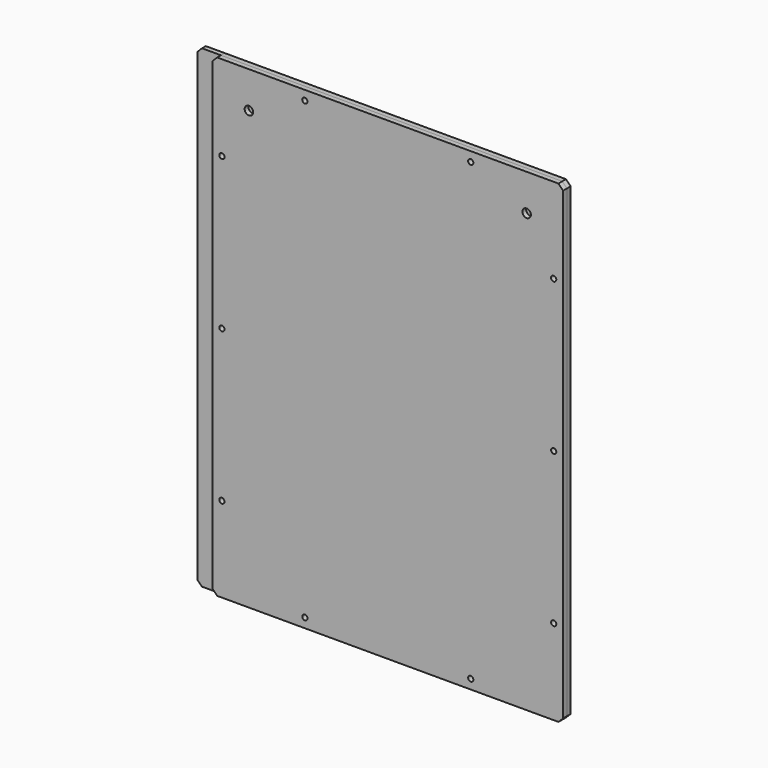
from build123d import *

# Parameters (mm, degrees)
F1_W     = 390
F1_H     = 500
F1_R     = 4.5
F2_DEPTH = 5
F3_D     = 5.5
F3_DEPTH = 17
F3_TIP   = 1.6523667023
F4_W     = 370
F4_H     = 500
F4_R     = 4.5
F5_DEPTH = 5
F6_D     = 5.5
F6_DEPTH = 17
F6_TIP   = 1.6523667023
F7_DEPTH = 5
F8_D     = 5.5
F8_DEPTH = 22.4
F8_TIP   = 1.6523667023
F9_SIZE  = 5
F10_SIZE = 5
F11_SIZE = 5


with BuildPart() as f2:
    # F1 (on Front) → F2 (new body)
    with BuildSketch(Plane.XZ):
        with Locations((-10, 0)):
            Rectangle(F1_W, F1_H)
        with Locations((-146.5, 193.5)):
            Circle(F1_R, mode=Mode.SUBTRACT)
        with Locations((146.5, 193.5)):
            Circle(F1_R, mode=Mode.SUBTRACT)
    extrude(amount=-F2_DEPTH)

    # F3
    with Locations(Plane.XZ):
        with Locations((-175, 240), (-175, 160), (-175, 80), (-175, -80), (-175, -160), (-175, -240), (-87.5, -240), (87.5, -240), (175, -240), (175, -160), (175, -80), (175, 80), (175, 160), (175, 240), (87.5, 240), (0, 240), (-87.5, 240), (-175, 0), (175, 0)):
            Hole(F3_D / 2, depth=F3_DEPTH)
            with Locations((0, 0, -(F3_DEPTH + F3_TIP / 2))):  # 118° drill point
                Cone(0, F3_D / 2, F3_TIP, mode=Mode.SUBTRACT)

    # F11
    f11_edges = [f2.edges().sort_by_distance(p)[0] for p in [
        (-205, 2.5, 250),
        (185, 2.5, 250),
        (185, 2.5, -250),
        (-205, 2.5, -250),
    ]]
    chamfer(f11_edges, length=F11_SIZE)


with BuildPart() as f5:
    # F4 (on Front) → F5 (new body)
    with BuildSketch(Plane.XZ):
        Rectangle(F4_W, F4_H)
        with Locations((-146.5, 211.5)):
            Circle(F4_R, mode=Mode.SUBTRACT)
        with BuildLine():
            ThreePointArc((-155, 170), (-149.1421356237, 184.1421356237), (-135, 190))
            Line((-135, 190), (135, 190))
            ThreePointArc((135, 190), (149.1421356237, 184.1421356237), (155, 170))
            Line((155, 170), (155, -140))
            ThreePointArc((155, -140), (149.1421356237, -154.1421356237), (135, -160))
            Line((135, -160), (-135, -160))
            ThreePointArc((-135, -160), (-149.1421356237, -154.1421356237), (-155, -140))
            Line((-155, -140), (-155, 170))
        make_face(mode=Mode.SUBTRACT)
        with Locations((146.5, 211.5)):
            Circle(F4_R, mode=Mode.SUBTRACT)
    extrude(amount=-F5_DEPTH)

    # F6
    with Locations(Plane.XZ):
        with Locations((175, 80), (-87.5, -240), (175, 240), (-175, -160), (175, -160), (87.5, -240), (0, 240), (175, -240), (-175, -240), (175, -80), (-175, 80), (87.5, 240), (175, 160), (-175, -80), (-87.5, 240), (-175, 240), (175, 0), (-175, 160), (-175, 0), (0, -240)):
            Hole(F6_D / 2, depth=F6_DEPTH)
            with Locations((0, 0, -(F6_DEPTH + F6_TIP / 2))):  # 118° drill point
                Cone(0, F6_D / 2, F6_TIP, mode=Mode.SUBTRACT)

    # F10
    f10_edges = [f5.edges().sort_by_distance(p)[0] for p in [
        (-185, 2.5, -250),
        (185, 2.5, -250),
        (185, 2.5, 250),
        (-185, 2.5, 250),
    ]]
    chamfer(f10_edges, length=F10_SIZE)


with BuildPart() as f7:
    # F4 (on Front) → F7 (new body)
    with BuildSketch(Plane.XZ):
        Rectangle(F4_W, F4_H)
        with Locations((-146.5, 211.5)):
            Circle(F4_R, mode=Mode.SUBTRACT)
        with BuildLine():
            ThreePointArc((-155, 170), (-149.1421356237, 184.1421356237), (-135, 190))
            Line((-135, 190), (135, 190))
            ThreePointArc((135, 190), (149.1421356237, 184.1421356237), (155, 170))
            Line((155, 170), (155, -140))
            ThreePointArc((155, -140), (149.1421356237, -154.1421356237), (135, -160))
            Line((135, -160), (-135, -160))
            ThreePointArc((-135, -160), (-149.1421356237, -154.1421356237), (-155, -140))
            Line((-155, -140), (-155, 170))
        make_face(mode=Mode.SUBTRACT)
        with Locations((146.5, 211.5)):
            Circle(F4_R, mode=Mode.SUBTRACT)
        with BuildLine():
            Line((135, 190), (-135, 190))
            ThreePointArc((-135, 190), (-149.1421356237, 184.1421356237), (-155, 170))
            Line((-155, 170), (-155, -140))
            ThreePointArc((-155, -140), (-149.1421356237, -154.1421356237), (-135, -160))
            Line((-135, -160), (135, -160))
            ThreePointArc((135, -160), (149.1421356237, -154.1421356237), (155, -140))
            Line((155, -140), (155, 170))
            ThreePointArc((155, 170), (149.1421356237, 184.1421356237), (135, 190))
        make_face()
    extrude(amount=F7_DEPTH)

    # F8
    with Locations(Plane(origin=(0, 0, 0), x_dir=(1, 0, 0), z_dir=(0, 1, 0))):
        with Locations((-175, -160), (-87.5, -240), (87.5, -240), (175, -160), (-175, 160), (-87.5, 240), (87.5, 240), (175, 160), (-175, 0), (175, 0)):
            Hole(F8_D / 2, depth=F8_DEPTH)
            with Locations((0, 0, -(F8_DEPTH + F8_TIP / 2))):  # 118° drill point
                Cone(0, F8_D / 2, F8_TIP, mode=Mode.SUBTRACT)

    # F9
    f9_edges = [f7.edges().sort_by_distance(p)[0] for p in [
        (-185, -2.5, 250),
        (185, -2.5, 250),
        (185, -2.5, -250),
        (-185, -2.5, -250),
    ]]
    chamfer(f9_edges, length=F9_SIZE)


solid = Compound([f2.part, f5.part, f7.part])
